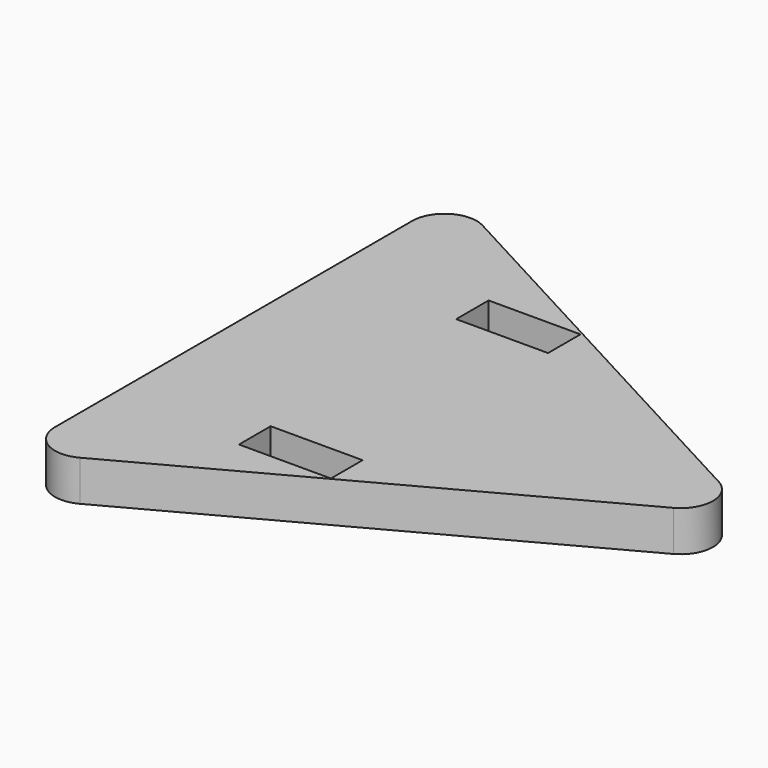
from build123d import *

# Parameters (mm, degrees)
F1_DEPTH = 8
F3_W     = 18.096443
F3_H     = 7.978035
F5_DEPTH = 8
F4_W     = 18.115349
F4_H     = 7.803778
F6_DEPTH = 8


with BuildPart() as f1:
    # F0 (on Top) → F1 (new body)
    with BuildSketch(Plane.XY):
        with BuildLine():
            ThreePointArc((54.546267, -5.591677), (57.887006, 0), (54.546267, 5.591677))
            Line((54.546267, 5.591677), (-27.175577, 49.571755))
            ThreePointArc((-27.175577, 49.571755), (-33.441654, 49.431285), (-36.534838, 43.980078))
            Line((-36.534838, 43.980078), (-36.534838, -43.980078))
            ThreePointArc((-36.534838, -43.980078), (-33.441654, -49.431285), (-27.175577, -49.571755))
            Line((-27.175577, -49.571755), (54.546267, -5.591677))
        make_face()
    extrude(amount=F1_DEPTH)

    # F3 (on face) → F5 (cut)
    with BuildSketch(Plane.XY.offset(8)):
        with Locations((-1.760172, 26.635416)):
            Rectangle(F3_W, F3_H)
    extrude(amount=-F5_DEPTH, mode=Mode.SUBTRACT)

    # F4 (on face) → F6 (cut)
    with BuildSketch(Plane.XY.offset(8)):
        with Locations((-1.75072, -26.947488)):
            Rectangle(F4_W, F4_H)
    extrude(amount=-F6_DEPTH, mode=Mode.SUBTRACT)


solid = f1.part
